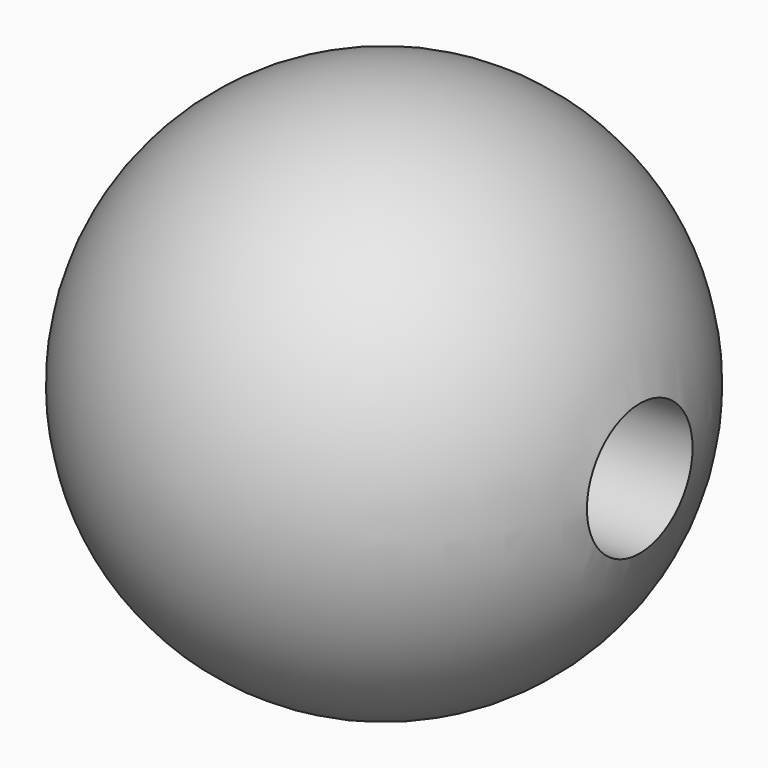
from build123d import *

# Parameters (mm, degrees)
F2_R          = 19.05
F3_DEPTH      = 76.201
F3_DEPTH_BACK = 76.201


with BuildPart() as f1:
    # F0 (on Top) → F1 (revolve)
    with BuildSketch(Plane.XY):
        with BuildLine():
            ThreePointArc((0, -76.2), (76.2, 0), (0, 76.2))
            Line((0, 76.2), (0, -76.2))
        make_face()
    revolve(axis=Axis((0, 0, 0), (0, -1, 0)))

    # F2 (on Right) → F3 (cut, two sides)
    with BuildSketch(Plane.YZ) as f3_sk:
        Circle(F2_R)
    extrude(amount=-F3_DEPTH, mode=Mode.SUBTRACT)
    extrude(f3_sk.sketch, amount=F3_DEPTH_BACK, mode=Mode.SUBTRACT)


solid = f1.part
